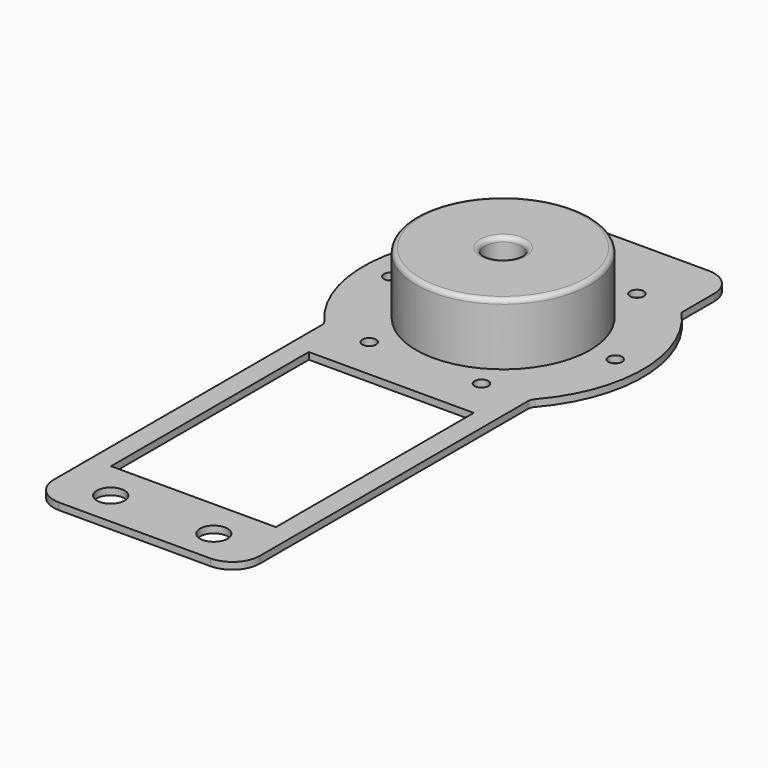
from build123d import *

# Parameters (mm, degrees)
CYLINDER010_R     = 19
CYLINDER010_DEPTH = 15
CYLINDER011_R     = 4
CYLINDER011_DEPTH = 18
SKETCH006_R       = 19
SKETCH006_R_2     = 3
SKETCH006_R_3     = 1.5
SKETCH006_W       = 36
SKETCH006_H       = 53.986387
PAD002_DEPTH      = 1.5
FILLET007_R       = 1
FILLET008_R       = 8


with BuildPart() as part:
    # Cylinder010 → Cylinder010 (join)
    with BuildSketch(Plane.XY):
        Circle(CYLINDER010_R)
    extrude(amount=CYLINDER010_DEPTH)

    # Sphere001 → Sphere001 (revolve, cut)
    with BuildSketch(Plane(origin=(0, 0, -5), x_dir=(1, 0, 0), z_dir=(0, -1, 0))):
        with BuildLine():
            ThreePointArc((0, -14.2), (14.2, 0), (0, 14.2))
            Line((0, 14.2), (0, -14.2))
        make_face()
    revolve(axis=Axis((0, 0, -5), (0, 0, 1)), mode=Mode.SUBTRACT)

    # Cylinder011 → Cylinder011 (cut)
    with BuildSketch(Plane.XY.offset(-2)):
        Circle(CYLINDER011_R)
    extrude(amount=CYLINDER011_DEPTH, mode=Mode.SUBTRACT)

    # Sketch006 → Pad002 (join)
    with BuildSketch(Plane.XY):
        with BuildLine():
            ThreePointArc((-22.5, 20.591260282), (-30.4977615184, 0.369516399), (-22.9922965207, -20.0400673827))
            ThreePointArc((-22.5, -21.3541501425), (-22.6271147127, -20.652515071), (-22.9922965208, -20.0400673827))
            Line((-22.5, -21.3541501425), (-22.5, -30.5))
            Line((-22.5, -30.5), (-22.5, -94.4863863704))
            ThreePointArc((-22.5, -94.4863863704), (-20.7426407961, -98.72902721), (-16.5000000467, -100.4863866319))
            Line((-16.5000000467, -100.4863866319), (16.5, -100.4863866319))
            ThreePointArc((16.5, -100.4863866319), (20.7426406871, -98.729027319), (22.5, -94.4863866319))
            Line((22.5, -94.4863866319), (22.5, -30.5))
            Line((22.5, -21.3541565041), (22.5, -30.5))
            ThreePointArc((22.9923076923, -20.0400545654), (22.6271165793, -20.6525100886), (22.5, -21.3541565041))
            ThreePointArc((22.9923076923, -20.0400545654), (30.4977614154, 0.3695248997), (22.5, 20.591260282))
            Line((22.5, 29.5), (22.5, 20.591260282))
            ThreePointArc((22.5, 29.5), (20.7426406871, 33.7426406871), (16.5, 35.5))
            Line((-16.5, 35.5), (16.5, 35.5))
            ThreePointArc((-16.5, 35.5), (-20.7426406871, 33.7426406871), (-22.5, 29.5))
            Line((-22.5, 20.591260282), (-22.5, 29.5))
        make_face()
        Circle(SKETCH006_R, mode=Mode.SUBTRACT)
        with Locations((-11.25, -93)):
            Circle(SKETCH006_R_2, mode=Mode.SUBTRACT)
        with Locations((11.25, -93)):
            Circle(SKETCH006_R_2, mode=Mode.SUBTRACT)
        with Locations((-12.25, 21.217622)):
            Circle(SKETCH006_R_3, mode=Mode.SUBTRACT)
        with Locations((12.25, 21.217622)):
            Circle(SKETCH006_R_3, mode=Mode.SUBTRACT)
        with Locations((24.5, 0)):
            Circle(SKETCH006_R_3, mode=Mode.SUBTRACT)
        with Locations((-24.5, 0)):
            Circle(SKETCH006_R_3, mode=Mode.SUBTRACT)
        with Locations((-12.25, -21.217622)):
            Circle(SKETCH006_R_3, mode=Mode.SUBTRACT)
        with Locations((12.25, -21.217622)):
            Circle(SKETCH006_R_3, mode=Mode.SUBTRACT)
        with Locations((0, -57.4931935)):
            Rectangle(SKETCH006_W, SKETCH006_H, mode=Mode.SUBTRACT)
    extrude(amount=PAD002_DEPTH)

    # Fillet007
    fillet007_edges = [part.edges().sort_by_distance(p)[0] for p in [
        (-19, 0, 15),
        (-4, 0, 15),
        (-4, 0, 8.624977),
    ]]
    fillet(fillet007_edges, radius=FILLET007_R)

    # Fillet008
    fillet008_edges = [part.edges().sort_by_distance(p)[0] for p in [
        (-13.290598, 0, 0),
    ]]
    fillet(fillet008_edges, radius=FILLET008_R)


with BuildPart() as part_1:
    # Body003 placement: moved
    add(part.part.moved(Location((0, 0, -1.5))))


solid = part_1.part
